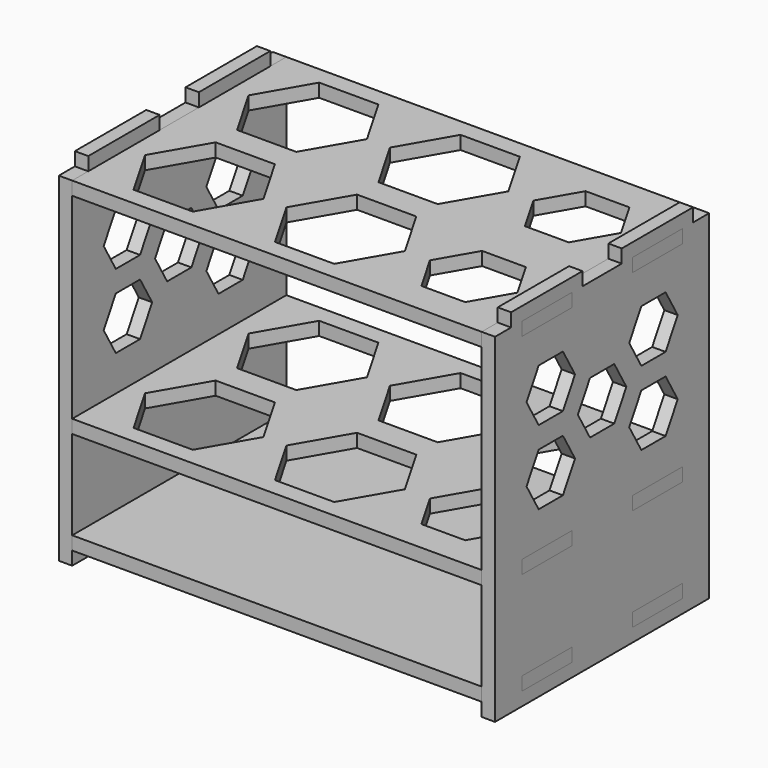
from build123d import *

# Parameters (mm, degrees)
F2_DEPTH = 50
F3_DEPTH = 47
F4_DEPTH = 3
F6_DEPTH = 23
F7_DEPTH = 20
F8_W     = 14
F8_H     = 3
F9_DEPTH = 3


with BuildPart() as f2:
    # F1 (on Top) → F2 (new body)
    with BuildSketch(Plane.XY):
        Polygon((45.8901643366, 22.5), (45.8901643366, 30), (-45.8901643366, 30), (-45.8901643366, 22.5), (-48.8901643366, 22.5), (-48.8901643366, 8.5), (-45.8901643366, 8.5), (-45.8901643366, -8.5), (-48.8901643366, -8.5), (-48.8901643366, -22.5), (-45.8901643366, -22.5), (-45.8901643366, -30), (45.8901643366, -30), (45.8901643366, -22.5), (48.8901643366, -22.5), (48.8901643366, -8.5), (45.8901643366, -8.5), (45.8901643366, 8.5), (48.8901643366, 8.5), (48.8901643366, 22.5), align=None)
        Polygon((-35.334610264, -3), (-22.0555540726, -3), (-15.4160259769, -14.5), (-22.0555540726, -26), (-35.334610264, -26), (-41.9741383597, -14.5), align=None, mode=Mode.SUBTRACT)
        Polygon((-3.6395280957, -3), (9.6395280957, -3), (16.2790561914, -14.5), (9.6395280957, -26), (-3.6395280957, -26), (-10.2790561914, -14.5), align=None, mode=Mode.SUBTRACT)
        Polygon((26.7876048802, -6), (36.6025594564, -6), (41.5100367445, -14.5), (36.6025594564, -23), (26.7876048802, -23), (21.8801275921, -14.5), align=None, mode=Mode.SUBTRACT)
        Polygon((-35.334610264, 26), (-22.0555540726, 26), (-15.4160259769, 14.5), (-22.0555540726, 3), (-35.334610264, 3), (-41.9741383597, 14.5), align=None, mode=Mode.SUBTRACT)
        Polygon((-3.6395280957, 26), (9.6395280957, 26), (16.2790561914, 14.5), (9.6395280957, 3), (-3.6395280957, 3), (-10.2790561914, 14.5), align=None, mode=Mode.SUBTRACT)
        Polygon((26.7876048802, 23), (36.6025594564, 23), (41.5100367445, 14.5), (36.6025594564, 6), (26.7876048802, 6), (21.8801275921, 14.5), align=None, mode=Mode.SUBTRACT)
    extrude(amount=F2_DEPTH)

    # F1 (on Top) → F3 (cut)
    with BuildSketch(Plane.XY):
        Polygon((45.8901643366, 22.5), (45.8901643366, 30), (-45.8901643366, 30), (-45.8901643366, 22.5), (-48.8901643366, 22.5), (-48.8901643366, 8.5), (-45.8901643366, 8.5), (-45.8901643366, -8.5), (-48.8901643366, -8.5), (-48.8901643366, -22.5), (-45.8901643366, -22.5), (-45.8901643366, -30), (45.8901643366, -30), (45.8901643366, -22.5), (48.8901643366, -22.5), (48.8901643366, -8.5), (45.8901643366, -8.5), (45.8901643366, 8.5), (48.8901643366, 8.5), (48.8901643366, 22.5), align=None)
        Polygon((-35.334610264, -3), (-22.0555540726, -3), (-15.4160259769, -14.5), (-22.0555540726, -26), (-35.334610264, -26), (-41.9741383597, -14.5), align=None, mode=Mode.SUBTRACT)
        Polygon((-3.6395280957, -3), (9.6395280957, -3), (16.2790561914, -14.5), (9.6395280957, -26), (-3.6395280957, -26), (-10.2790561914, -14.5), align=None, mode=Mode.SUBTRACT)
        Polygon((26.7876048802, -6), (36.6025594564, -6), (41.5100367445, -14.5), (36.6025594564, -23), (26.7876048802, -23), (21.8801275921, -14.5), align=None, mode=Mode.SUBTRACT)
        Polygon((-35.334610264, 26), (-22.0555540726, 26), (-15.4160259769, 14.5), (-22.0555540726, 3), (-35.334610264, 3), (-41.9741383597, 14.5), align=None, mode=Mode.SUBTRACT)
        Polygon((-3.6395280957, 26), (9.6395280957, 26), (16.2790561914, 14.5), (9.6395280957, 3), (-3.6395280957, 3), (-10.2790561914, 14.5), align=None, mode=Mode.SUBTRACT)
        Polygon((26.7876048802, 23), (36.6025594564, 23), (41.5100367445, 14.5), (36.6025594564, 6), (26.7876048802, 6), (21.8801275921, 14.5), align=None, mode=Mode.SUBTRACT)
    extrude(amount=F3_DEPTH, mode=Mode.SUBTRACT)


with BuildPart() as f4:
    # F1 (on Top) → F4 (new body)
    with BuildSketch(Plane.XY):
        Polygon((45.8901643366, 22.5), (45.8901643366, 30), (-45.8901643366, 30), (-45.8901643366, 22.5), (-48.8901643366, 22.5), (-48.8901643366, 8.5), (-45.8901643366, 8.5), (-45.8901643366, -8.5), (-48.8901643366, -8.5), (-48.8901643366, -22.5), (-45.8901643366, -22.5), (-45.8901643366, -30), (45.8901643366, -30), (45.8901643366, -22.5), (48.8901643366, -22.5), (48.8901643366, -8.5), (45.8901643366, -8.5), (45.8901643366, 8.5), (48.8901643366, 8.5), (48.8901643366, 22.5), align=None)
        Polygon((-35.334610264, -3), (-22.0555540726, -3), (-15.4160259769, -14.5), (-22.0555540726, -26), (-35.334610264, -26), (-41.9741383597, -14.5), align=None, mode=Mode.SUBTRACT)
        Polygon((-3.6395280957, -3), (9.6395280957, -3), (16.2790561914, -14.5), (9.6395280957, -26), (-3.6395280957, -26), (-10.2790561914, -14.5), align=None, mode=Mode.SUBTRACT)
        Polygon((26.7876048802, -6), (36.6025594564, -6), (41.5100367445, -14.5), (36.6025594564, -23), (26.7876048802, -23), (21.8801275921, -14.5), align=None, mode=Mode.SUBTRACT)
        Polygon((-35.334610264, 26), (-22.0555540726, 26), (-15.4160259769, 14.5), (-22.0555540726, 3), (-35.334610264, 3), (-41.9741383597, 14.5), align=None, mode=Mode.SUBTRACT)
        Polygon((-3.6395280957, 26), (9.6395280957, 26), (16.2790561914, 14.5), (9.6395280957, 3), (-3.6395280957, 3), (-10.2790561914, 14.5), align=None, mode=Mode.SUBTRACT)
        Polygon((26.7876048802, 23), (36.6025594564, 23), (41.5100367445, 14.5), (36.6025594564, 6), (26.7876048802, 6), (21.8801275921, 14.5), align=None, mode=Mode.SUBTRACT)
    extrude(amount=F4_DEPTH)


with BuildPart() as f6:
    # F5 (on face) → F6 (new body)
    with BuildSketch(Plane.XY):
        Polygon((-45.8901643366, -22.5), (-45.8901643366, -30), (0, -30), (45.8901643366, -30), (45.8901643366, -22.5), (48.8901643366, -22.5), (48.8901643366, -8.5), (45.8901643366, -8.5), (45.8901643366, 0), (45.8901643366, 8.5), (48.8901643366, 8.5), (48.8901643366, 22.5), (45.8901643366, 22.5), (45.8901643366, 30), (0, 30), (-45.8901643366, 30), (-45.8901643366, 22.5), (-48.8901643366, 22.5), (-48.8901643366, 8.5), (-45.8901643366, 8.5), (-45.8901643366, 0), (-45.8901643366, -8.5), (-48.8901643366, -8.5), (-48.8901643366, -22.5), align=None)
    extrude(amount=-F6_DEPTH)

    # F5 (on face) → F7 (cut)
    with BuildSketch(Plane.XY):
        Polygon((-45.8901643366, -22.5), (-45.8901643366, -30), (0, -30), (45.8901643366, -30), (45.8901643366, -22.5), (48.8901643366, -22.5), (48.8901643366, -8.5), (45.8901643366, -8.5), (45.8901643366, 0), (45.8901643366, 8.5), (48.8901643366, 8.5), (48.8901643366, 22.5), (45.8901643366, 22.5), (45.8901643366, 30), (0, 30), (-45.8901643366, 30), (-45.8901643366, 22.5), (-48.8901643366, 22.5), (-48.8901643366, 8.5), (-45.8901643366, 8.5), (-45.8901643366, 0), (-45.8901643366, -8.5), (-48.8901643366, -8.5), (-48.8901643366, -22.5), align=None)
    extrude(amount=-F7_DEPTH, mode=Mode.SUBTRACT)


with BuildPart() as f9:
    # F8 (on face) → F9 (new body)
    with BuildSketch(Plane(origin=(-48.8901643366, 0, 0), x_dir=(0, -1, 0), z_dir=(-1, 0, 0))):
        Polygon((30, -26), (30, -23), (30, 50), (25.5, 50), (25.5, 53), (5.5, 53), (5.5, 50), (0, 50), (-5.5, 50), (-5.5, 53), (-25.5, 53), (-25.5, 50), (-30, 50), (-30, -23), (-30, -26), (0, -26), align=None)
        with Locations((-15.5, -21.5)):
            Rectangle(F8_W, F8_H, mode=Mode.SUBTRACT)
        with Locations((-15.5, 1.5)):
            Rectangle(F8_W, F8_H, mode=Mode.SUBTRACT)
        with Locations((15.5, -21.5)):
            Rectangle(F8_W, F8_H, mode=Mode.SUBTRACT)
        with Locations((15.5, 1.5)):
            Rectangle(F8_W, F8_H, mode=Mode.SUBTRACT)
        Polygon((-10.9860279676, 22.7545967357), (-7.5881727197, 16.8693388096), (-10.9860279676, 10.9840808834), (-17.7817384634, 10.9840808834), (-21.1795937113, 16.8693388096), (-17.7817384634, 22.7545967357), align=None, mode=Mode.SUBTRACT)
        Polygon((3.3978552479, 31.0591355822), (6.7957104958, 25.173877656), (3.3978552479, 19.2886197299), (-3.3978552479, 19.2886197299), (-6.7957104958, 25.173877656), (-3.3978552479, 31.0591355822), align=None, mode=Mode.SUBTRACT)
        with Locations((-15.5, 48.5)):
            Rectangle(F8_W, F8_H, mode=Mode.SUBTRACT)
        Polygon((-10.9860279676, 39.3636744286), (-7.5881727197, 33.4784165025), (-10.9860279676, 27.5931585763), (-17.7817384634, 27.5931585763), (-21.1795937113, 33.4784165025), (-17.7817384634, 39.3636744286), align=None, mode=Mode.SUBTRACT)
        Polygon((17.7817384634, 22.7545967357), (21.1795937113, 16.8693388096), (17.7817384634, 10.9840808834), (10.9860279676, 10.9840808834), (7.5881727197, 16.8693388096), (10.9860279676, 22.7545967357), align=None, mode=Mode.SUBTRACT)
        Polygon((17.7817384634, 39.3636744286), (21.1795937113, 33.4784165025), (17.7817384634, 27.5931585763), (10.9860279676, 27.5931585763), (7.5881727197, 33.4784165025), (10.9860279676, 39.3636744286), align=None, mode=Mode.SUBTRACT)
        with Locations((15.5, 48.5)):
            Rectangle(F8_W, F8_H, mode=Mode.SUBTRACT)
    extrude(amount=-F9_DEPTH)


with BuildPart() as f10_1:
    # F10: instance of F9
    add(f9.part.mirror(Plane.YZ))


solid = Compound([f2.part, f4.part, f6.part, f9.part, f10_1.part])
